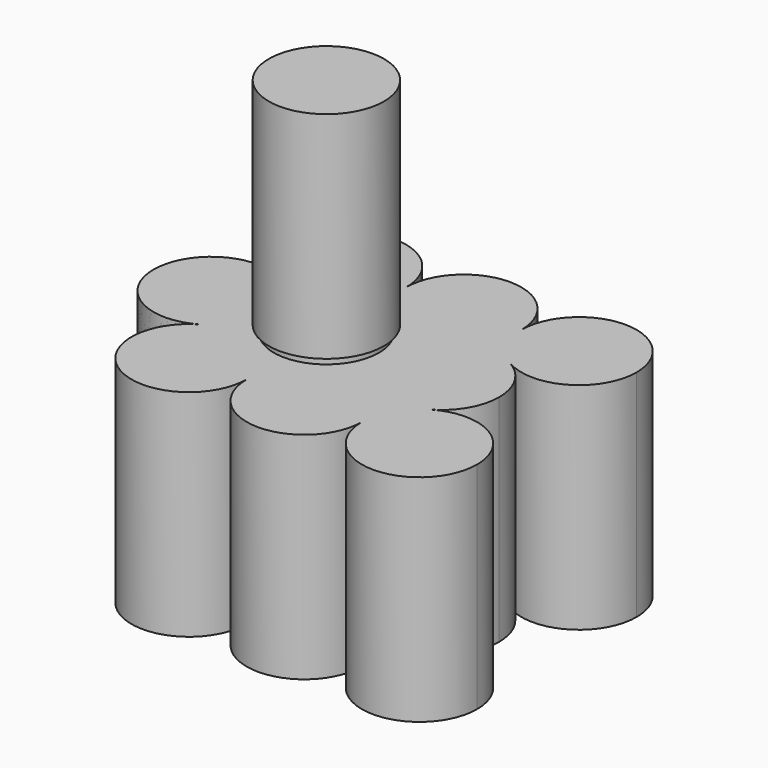
from build123d import *

# Parameters (mm, degrees)
F2_DEPTH = 43
F4_R     = 10.5
F5_DEPTH = 1.5
F8_R     = 11.5
F9_DEPTH = 43


with BuildPart() as f2:
    # F1 (on Top) → F2 (new body)
    with BuildSketch(Plane.XY):
        with BuildLine():
            ThreePointArc((85.0524389676, 19.918584287), (73.5524389676, 31.418584287), (62.0524389676, 19.918584287))
            ThreePointArc((62.0524389676, 19.918584287), (63.5931467664, 14.168584387), (67.8024387677, 9.9592922589))
            ThreePointArc((67.8024387677, 9.9592922589), (79.3024388676, 9.9592920858), (85.0524389676, 19.918584287))
        make_face()
        with BuildLine():
            ThreePointArc((67.8093484759, -9.95529974), (63.6049713282, -14.1640552846), (62.066257831, -19.9105995686))
            ThreePointArc((62.066257831, -19.9105995686), (73.566257831, -31.4105995686), (85.066257831, -19.9105995686))
            ThreePointArc((85.066257831, -19.9105995686), (79.312802115, -9.9493130657), (67.8093484759, -9.95529974))
        make_face()
        with BuildLine():
            ThreePointArc((33.3024389273, 9.9592921203), (37.5117310995, 14.1685842669), (39.0524389676, 19.918584287))
            ThreePointArc((39.0524389676, 19.918584287), (21.8024390217, 29.8778764618), (21.8024388594, 9.959292206))
            ThreePointArc((21.8024388594, 9.959292206), (27.5524388819, 8.418584287), (33.3024389273, 9.9592921203))
        make_face()
        with BuildLine():
            ThreePointArc((27.5524389676, 0), (26.0117310799, 5.7500000541), (21.8024388594, 9.959292206))
            ThreePointArc((21.8024388594, 9.959292206), (4.5524396598, -0.0039899827), (21.8093483274, -9.9552998259))
            ThreePointArc((21.8093483274, -9.9552998259), (26.0137254718, -5.7465442817), (27.5524389676, 0))
        make_face()
        with BuildLine():
            ThreePointArc((33.3024389273, 9.9592921203), (27.5524388819, 8.418584287), (21.8024388594, 9.959292206))
            ThreePointArc((21.8024388594, 9.959292206), (26.0117310799, 5.7500000541), (27.5524389676, 0))
            ThreePointArc((27.5524389676, 0), (29.0931468125, 5.7499999799), (33.3024389273, 9.9592921203))
        make_face()
        with BuildLine():
            ThreePointArc((44.8024388594, 9.959292206), (40.5931467929, 14.1685843411), (39.0524389676, 19.918584287))
            ThreePointArc((39.0524389676, 19.918584287), (37.5117310995, 14.1685842669), (33.3024389273, 9.9592921203))
            ThreePointArc((33.3024389273, 9.9592921203), (39.0524388819, 11.5), (44.8024388594, 9.959292206))
        make_face()
        with BuildLine():
            ThreePointArc((32.9640435524, -9.7560976455), (28.9959349211, -5.5782368507), (27.5524389676, 0))
            ThreePointArc((27.5524389676, 0), (26.0137254718, -5.7465442817), (21.8093483274, -9.9552998259))
            ThreePointArc((21.8093483274, -9.9552998259), (27.360921887, -8.4124328821), (32.9640435524, -9.7560976455))
        make_face()
        with BuildLine():
            ThreePointArc((32.9640435524, -9.7560976455), (27.360921887, -8.4124328821), (21.8093483274, -9.9552998259))
            ThreePointArc((21.8093483274, -9.9552998259), (21.8197136213, -29.8718861143), (39.066257831, -19.9105995686))
            ThreePointArc((39.066257831, -19.9105995686), (37.6227618775, -14.3323627178), (33.6546532462, -10.1545019231))
            ThreePointArc((33.6546532462, -10.1545019231), (33.3058947219, -9.961286525), (32.9640435524, -9.7560976455))
        make_face()
        with BuildLine():
            ThreePointArc((33.6546532462, -10.1545019231), (37.6227618775, -14.3323627178), (39.066257831, -19.9105995686))
            ThreePointArc((39.066257831, -19.9105995686), (40.6049713407, -14.1640552628), (44.8093485194, -9.9552997148))
            ThreePointArc((44.8093485194, -9.9552997148), (39.2577749395, -11.498166686), (33.6546532462, -10.1545019231))
        make_face()
        with BuildLine():
            ThreePointArc((62.0524389676, 19.918584287), (50.5524389676, 31.418584287), (39.0524389676, 19.918584287))
            ThreePointArc((39.0524389676, 19.918584287), (40.5931467929, 14.1685843411), (44.8024388594, 9.959292206))
            ThreePointArc((44.8024388594, 9.959292206), (50.5524390206, 8.418584287), (56.3024391675, 9.9592922589))
            ThreePointArc((56.3024391675, 9.9592922589), (60.5117311688, 14.168584387), (62.0524389676, 19.918584287))
        make_face()
        with BuildLine():
            ThreePointArc((67.8024387677, 9.9592922589), (63.5931467664, 14.168584387), (62.0524389676, 19.918584287))
            ThreePointArc((62.0524389676, 19.918584287), (60.5117311688, 14.168584387), (56.3024391675, 9.9592922589))
            ThreePointArc((56.3024391675, 9.9592922589), (62.0524389676, 11.5), (67.8024387677, 9.9592922589))
        make_face()
        with BuildLine():
            ThreePointArc((56.6546532462, -10.1545019231), (60.6227618775, -14.3323627178), (62.066257831, -19.9105995686))
            ThreePointArc((62.066257831, -19.9105995686), (63.6049713282, -14.1640552846), (67.8093484759, -9.95529974))
            ThreePointArc((67.8093484759, -9.95529974), (62.2577749143, -11.4981666864), (56.6546532462, -10.1545019231))
        make_face()
        with BuildLine():
            ThreePointArc((44.8093485194, -9.9552997148), (40.6049713407, -14.1640552628), (39.066257831, -19.9105995686))
            ThreePointArc((39.066257831, -19.9105995686), (50.566257831, -31.4105995686), (62.066257831, -19.9105995686))
            ThreePointArc((62.066257831, -19.9105995686), (60.6227618775, -14.3323627178), (56.6546532462, -10.1545019231))
            ThreePointArc((56.6546532462, -10.1545019231), (56.3058947219, -9.961286525), (55.9640435524, -9.7560976455))
            ThreePointArc((55.9640435524, -9.7560976455), (50.3609219979, -8.4124328801), (44.8093485194, -9.9552997148))
        make_face()
        with BuildLine():
            ThreePointArc((67.8024387677, 9.9592922589), (62.0524389676, 11.5), (56.3024391675, 9.9592922589))
            ThreePointArc((56.3024391675, 9.9592922589), (52.0931468818, 5.7500001), (50.5524389676, 0))
            ThreePointArc((50.5524389676, 0), (51.9959349211, -5.5782368507), (55.9640435524, -9.7560976455))
            ThreePointArc((55.9640435524, -9.7560976455), (56.3128020767, -9.9493130436), (56.6546532462, -10.1545019231))
            ThreePointArc((56.6546532462, -10.1545019231), (62.2577749143, -11.4981666864), (67.8093484759, -9.95529974))
            ThreePointArc((67.8093484759, -9.95529974), (72.0137255147, -5.7465442074), (73.5524389676, 0))
            ThreePointArc((73.5524389676, 0), (72.0117310534, 5.7500001), (67.8024387677, 9.9592922589))
        make_face()
        with BuildLine():
            ThreePointArc((44.8024388594, 9.959292206), (39.0524388819, 11.5), (33.3024389273, 9.9592921203))
            ThreePointArc((33.3024389273, 9.9592921203), (29.0931468125, 5.7499999799), (27.5524389676, 0))
            ThreePointArc((27.5524389676, 0), (28.9959349211, -5.5782368507), (32.9640435524, -9.7560976455))
            ThreePointArc((32.9640435524, -9.7560976455), (33.3128020767, -9.9493130436), (33.6546532462, -10.1545019231))
            ThreePointArc((33.6546532462, -10.1545019231), (39.2577749395, -11.498166686), (44.8093485194, -9.9552997148))
            ThreePointArc((44.8093485194, -9.9552997148), (49.0137255272, -5.7465441856), (50.5524389676, 0))
            ThreePointArc((50.5524389676, 0), (49.0117310799, 5.7500000541), (44.8024388594, 9.959292206))
        make_face()
        with BuildLine():
            ThreePointArc((56.3024391675, 9.9592922589), (50.5524390206, 8.418584287), (44.8024388594, 9.959292206))
            ThreePointArc((44.8024388594, 9.959292206), (49.0117310799, 5.7500000541), (50.5524389676, 0))
            ThreePointArc((50.5524389676, 0), (52.0931468818, 5.7500001), (56.3024391675, 9.9592922589))
        make_face()
        with BuildLine():
            ThreePointArc((55.9640435524, -9.7560976455), (51.9959349211, -5.5782368507), (50.5524389676, 0))
            ThreePointArc((50.5524389676, 0), (49.0137255272, -5.7465441856), (44.8093485194, -9.9552997148))
            ThreePointArc((44.8093485194, -9.9552997148), (50.3609219979, -8.4124328801), (55.9640435524, -9.7560976455))
        make_face()
        with BuildLine():
            ThreePointArc((56.6546532462, -10.1545019231), (56.3128020767, -9.9493130436), (55.9640435524, -9.7560976455))
            ThreePointArc((55.9640435524, -9.7560976455), (56.3058947219, -9.961286525), (56.6546532462, -10.1545019231))
        make_face()
        with BuildLine():
            ThreePointArc((33.6546532462, -10.1545019231), (33.3128020767, -9.9493130436), (32.9640435524, -9.7560976455))
            ThreePointArc((32.9640435524, -9.7560976455), (33.3058947219, -9.961286525), (33.6546532462, -10.1545019231))
        make_face()
    extrude(amount=F2_DEPTH)


with BuildPart() as f2b:
    # F0 (on Top) → F2, piece 2 (new body)
    with BuildSketch(Plane.XY):
        with BuildLine():
            ThreePointArc((33.3024389273, 9.9592921203), (29.0931468125, 5.7499999799), (27.5524389676, 0))
            ThreePointArc((27.5524389676, 0), (28.9959349211, -5.5782368507), (32.9640435524, -9.7560976455))
            ThreePointArc((32.9640435524, -9.7560976455), (33.3128020767, -9.9493130436), (33.6546532462, -10.1545019231))
            ThreePointArc((33.6546532462, -10.1545019231), (39.2577749143, -11.4981666864), (44.8093484759, -9.95529974))
            ThreePointArc((44.8093484759, -9.95529974), (49.0137255147, -5.7465442074), (50.5524389676, 0))
            ThreePointArc((50.5524389676, 0), (49.0117310799, 5.7500000541), (44.8024388594, 9.959292206))
            ThreePointArc((44.8024388594, 9.959292206), (39.0524388819, 11.5), (33.3024389273, 9.9592921203))
        make_face()
        with BuildLine():
            ThreePointArc((56.6546532462, -10.1545019231), (60.6227618775, -14.3323627178), (62.066257831, -19.9105995686))
            ThreePointArc((62.066257831, -19.9105995686), (63.6049713282, -14.1640552846), (67.8093484759, -9.95529974))
            ThreePointArc((67.8093484759, -9.95529974), (62.2577749143, -11.4981666864), (56.6546532462, -10.1545019231))
        make_face()
        with BuildLine():
            ThreePointArc((67.8024387677, 9.9592922589), (63.5931467664, 14.168584387), (62.0524389676, 19.918584287))
            ThreePointArc((62.0524389676, 19.918584287), (60.5117311688, 14.168584387), (56.3024391675, 9.9592922589))
            ThreePointArc((56.3024391675, 9.9592922589), (62.0524389676, 11.5), (67.8024387677, 9.9592922589))
        make_face()
        with BuildLine():
            ThreePointArc((44.8093484759, -9.95529974), (40.6049713282, -14.1640552846), (39.066257831, -19.9105995686))
            ThreePointArc((39.066257831, -19.9105995686), (50.566257831, -31.4105995686), (62.066257831, -19.9105995686))
            ThreePointArc((62.066257831, -19.9105995686), (60.6227618775, -14.3323627178), (56.6546532462, -10.1545019231))
            ThreePointArc((56.6546532462, -10.1545019231), (56.3058947219, -9.961286525), (55.9640435524, -9.7560976455))
            ThreePointArc((55.9640435524, -9.7560976455), (50.3609219728, -8.4124328806), (44.8093484759, -9.95529974))
        make_face()
        with BuildLine():
            ThreePointArc((67.8024387677, 9.9592922589), (62.0524389676, 11.5), (56.3024391675, 9.9592922589))
            ThreePointArc((56.3024391675, 9.9592922589), (52.0931468818, 5.7500001), (50.5524389676, 0))
            ThreePointArc((50.5524389676, 0), (51.9959349211, -5.5782368507), (55.9640435524, -9.7560976455))
            ThreePointArc((55.9640435524, -9.7560976455), (56.3128020767, -9.9493130436), (56.6546532462, -10.1545019231))
            ThreePointArc((56.6546532462, -10.1545019231), (62.2577749143, -11.4981666864), (67.8093484759, -9.95529974))
            ThreePointArc((67.8093484759, -9.95529974), (72.0137255147, -5.7465442074), (73.5524389676, 0))
            ThreePointArc((73.5524389676, 0), (72.0117310534, 5.7500001), (67.8024387677, 9.9592922589))
        make_face()
        with BuildLine():
            ThreePointArc((50.5524389676, 0), (49.0137255147, -5.7465442074), (44.8093484759, -9.95529974))
            ThreePointArc((44.8093484759, -9.95529974), (50.3609219728, -8.4124328806), (55.9640435524, -9.7560976455))
            ThreePointArc((55.9640435524, -9.7560976455), (51.9959349211, -5.5782368507), (50.5524389676, 0))
        make_face()
        with BuildLine():
            ThreePointArc((85.0524389676, 19.918584287), (73.5524389676, 31.418584287), (62.0524389676, 19.918584287))
            ThreePointArc((62.0524389676, 19.918584287), (63.5931467664, 14.168584387), (67.8024387677, 9.9592922589))
            ThreePointArc((67.8024387677, 9.9592922589), (79.3024388676, 9.9592920858), (85.0524389676, 19.918584287))
        make_face()
        with BuildLine():
            ThreePointArc((67.8093484759, -9.95529974), (63.6049713282, -14.1640552846), (62.066257831, -19.9105995686))
            ThreePointArc((62.066257831, -19.9105995686), (73.566257831, -31.4105995686), (85.066257831, -19.9105995686))
            ThreePointArc((85.066257831, -19.9105995686), (79.312802115, -9.9493130657), (67.8093484759, -9.95529974))
        make_face()
        with BuildLine():
            ThreePointArc((21.8093483274, -9.9552998259), (26.0137254718, -5.7465442817), (27.5524389676, 0))
            ThreePointArc((27.5524389676, 0), (26.0117311674, 5.7499999026), (21.8024391624, 9.959292031))
            ThreePointArc((21.8024391624, 9.959292031), (4.5524396597, -0.0039898077), (21.8093483274, -9.9552998259))
        make_face()
        with BuildLine():
            ThreePointArc((39.0524389676, 19.918584287), (21.8024388702, 29.8778763743), (21.8024391624, 9.959292031))
            ThreePointArc((21.8024391624, 9.959292031), (27.5524390568, 8.418584287), (33.3024389273, 9.9592921203))
            ThreePointArc((33.3024389273, 9.9592921203), (37.5117310995, 14.1685842669), (39.0524389676, 19.918584287))
        make_face()
        with BuildLine():
            ThreePointArc((21.8024391624, 9.959292031), (26.0117311674, 5.7499999026), (27.5524389676, 0))
            ThreePointArc((27.5524389676, 0), (29.0931468125, 5.7499999799), (33.3024389273, 9.9592921203))
            ThreePointArc((33.3024389273, 9.9592921203), (27.5524390568, 8.418584287), (21.8024391624, 9.959292031))
        make_face()
        with BuildLine():
            ThreePointArc((32.9640435524, -9.7560976455), (28.9959349211, -5.5782368507), (27.5524389676, 0))
            ThreePointArc((27.5524389676, 0), (26.0137254718, -5.7465442817), (21.8093483274, -9.9552998259))
            ThreePointArc((21.8093483274, -9.9552998259), (27.360921887, -8.4124328821), (32.9640435524, -9.7560976455))
        make_face()
        with BuildLine():
            ThreePointArc((39.0524389676, 19.918584287), (37.5117310995, 14.1685842669), (33.3024389273, 9.9592921203))
            ThreePointArc((33.3024389273, 9.9592921203), (39.0524388819, 11.5), (44.8024388594, 9.959292206))
            ThreePointArc((44.8024388594, 9.959292206), (40.5931467929, 14.1685843411), (39.0524389676, 19.918584287))
        make_face()
        with BuildLine():
            ThreePointArc((32.9640435524, -9.7560976455), (27.360921887, -8.4124328821), (21.8093483274, -9.9552998259))
            ThreePointArc((21.8093483274, -9.9552998259), (21.8197136213, -29.8718861143), (39.066257831, -19.9105995686))
            ThreePointArc((39.066257831, -19.9105995686), (37.6227618775, -14.3323627178), (33.6546532462, -10.1545019231))
            ThreePointArc((33.6546532462, -10.1545019231), (33.3058947219, -9.961286525), (32.9640435524, -9.7560976455))
        make_face()
        with BuildLine():
            ThreePointArc((33.6546532462, -10.1545019231), (37.6227618775, -14.3323627178), (39.066257831, -19.9105995686))
            ThreePointArc((39.066257831, -19.9105995686), (40.6049713282, -14.1640552846), (44.8093484759, -9.95529974))
            ThreePointArc((44.8093484759, -9.95529974), (39.2577749143, -11.4981666864), (33.6546532462, -10.1545019231))
        make_face()
        with BuildLine():
            ThreePointArc((62.0524389676, 19.918584287), (50.5524389676, 31.418584287), (39.0524389676, 19.918584287))
            ThreePointArc((39.0524389676, 19.918584287), (40.5931467929, 14.1685843411), (44.8024388594, 9.959292206))
            ThreePointArc((44.8024388594, 9.959292206), (50.5524390206, 8.418584287), (56.3024391675, 9.9592922589))
            ThreePointArc((56.3024391675, 9.9592922589), (60.5117311688, 14.168584387), (62.0524389676, 19.918584287))
        make_face()
        with BuildLine():
            ThreePointArc((56.3024391675, 9.9592922589), (50.5524390206, 8.418584287), (44.8024388594, 9.959292206))
            ThreePointArc((44.8024388594, 9.959292206), (49.0117310799, 5.7500000541), (50.5524389676, 0))
            ThreePointArc((50.5524389676, 0), (52.0931468818, 5.7500001), (56.3024391675, 9.9592922589))
        make_face()
        with BuildLine():
            ThreePointArc((55.9640435524, -9.7560976455), (56.3058947219, -9.961286525), (56.6546532462, -10.1545019231))
            ThreePointArc((56.6546532462, -10.1545019231), (56.3128020767, -9.9493130436), (55.9640435524, -9.7560976455))
        make_face()
        with BuildLine():
            ThreePointArc((33.6546532462, -10.1545019231), (33.3128020767, -9.9493130436), (32.9640435524, -9.7560976455))
            ThreePointArc((32.9640435524, -9.7560976455), (33.3058947219, -9.961286525), (33.6546532462, -10.1545019231))
        make_face()
    extrude(amount=F2_DEPTH)


with BuildPart() as f5:
    # F4 (on offset) → F5 (new body)
    with BuildSketch(Plane.XY.offset(43)):
        with Locations((39.0524389676, 0)):
            Circle(F4_R)
    extrude(amount=F5_DEPTH)


with BuildPart() as f9:
    # F8 (on offset) → F9 (new body)
    with BuildSketch(Plane.XY.offset(44.5)):
        with Locations((39.0524389676, 0)):
            Circle(F8_R)
    extrude(amount=F9_DEPTH)


solid = Compound([f2.part, f2b.part, f5.part, f9.part])
